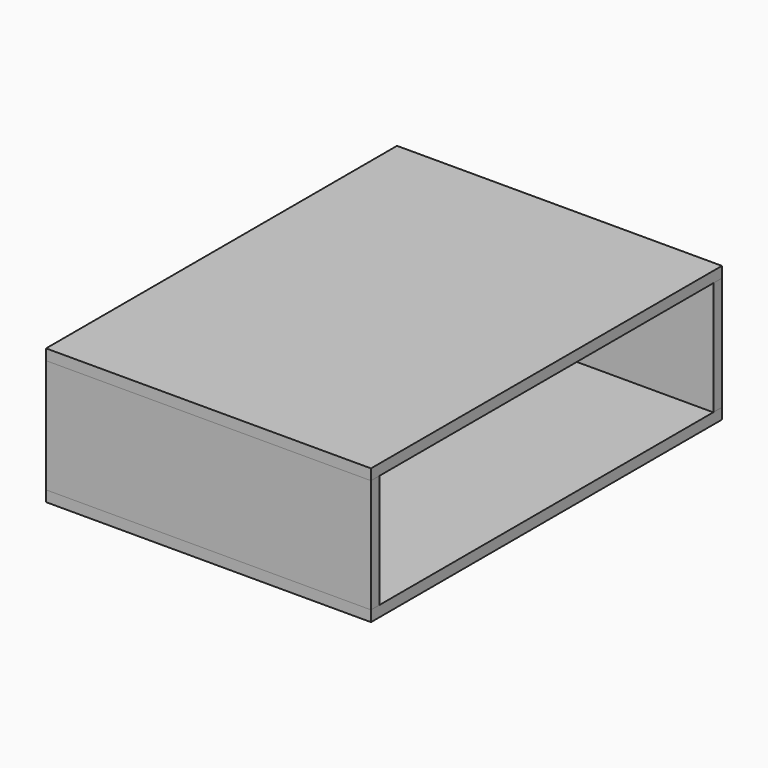
from build123d import *

# Parameters (mm, degrees)
F0_W     = 60
F0_H     = 81
F1_DEPTH = 2
F2_W     = 60
F2_H     = 2
F5_DEPTH = 21
F4_W     = 60
F4_H     = 2
F6_DEPTH = 81


with BuildPart() as f1:
    # F0 (on Top) → F1 (new body)
    with BuildSketch(Plane.XY):
        with Locations((30, 40.5)):
            Rectangle(F0_W, F0_H)
    extrude(amount=-F1_DEPTH)


with BuildPart() as f5:
    # F2 (on Top) → F5 (new body)
    with BuildSketch(Plane.XY):
        Polygon((0, 51), (0, 0), (60, 0), (60, 2), (2, 2), (2, 51), align=None)
        with Locations((30, 80)):
            Rectangle(F2_W, F2_H)
    extrude(amount=F5_DEPTH)


with BuildPart() as f6:
    # F4 (on Front) → F6 (new body)
    with BuildSketch(Plane.XZ):
        with Locations((30, 22)):
            Rectangle(F4_W, F4_H)
    extrude(amount=-F6_DEPTH)


solid = Compound([f1.part, f5.part, f6.part])
